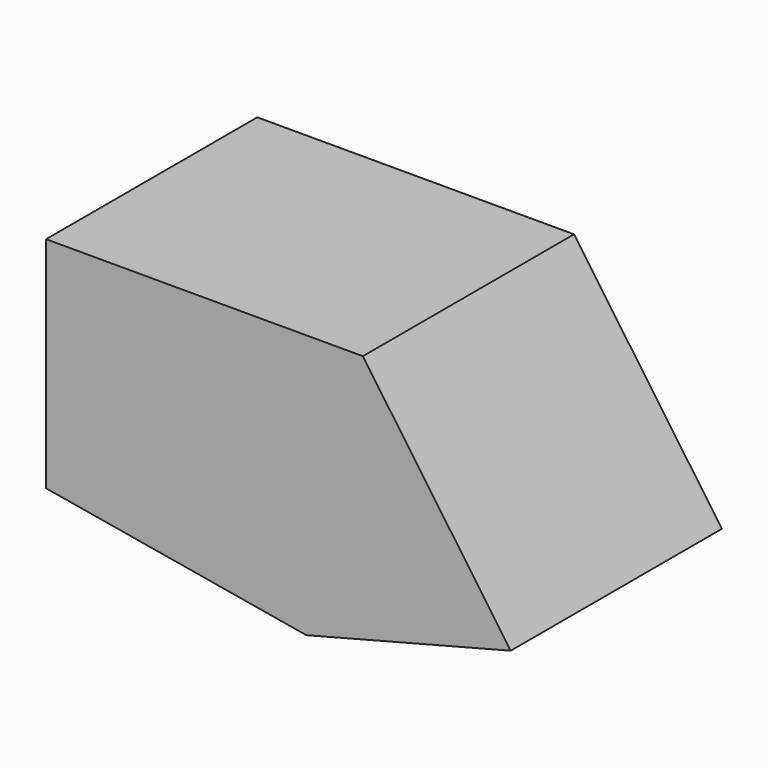
from build123d import *

# Parameters (mm, degrees)
F1_DEPTH      = 25
F1_DEPTH_BACK = 25


with BuildPart() as f1:
    # F0 (on Front) → F1 (new body, two sides)
    with BuildSketch(Plane.XZ) as f1_sk:
        Polygon((-30, 25), (-30, 0), (-30, -16.536396), (19.278468, -25), (58.008302, -15), (30, 25), align=None)
    extrude(amount=F1_DEPTH)
    extrude(f1_sk.sketch, amount=-F1_DEPTH_BACK)


solid = f1.part
